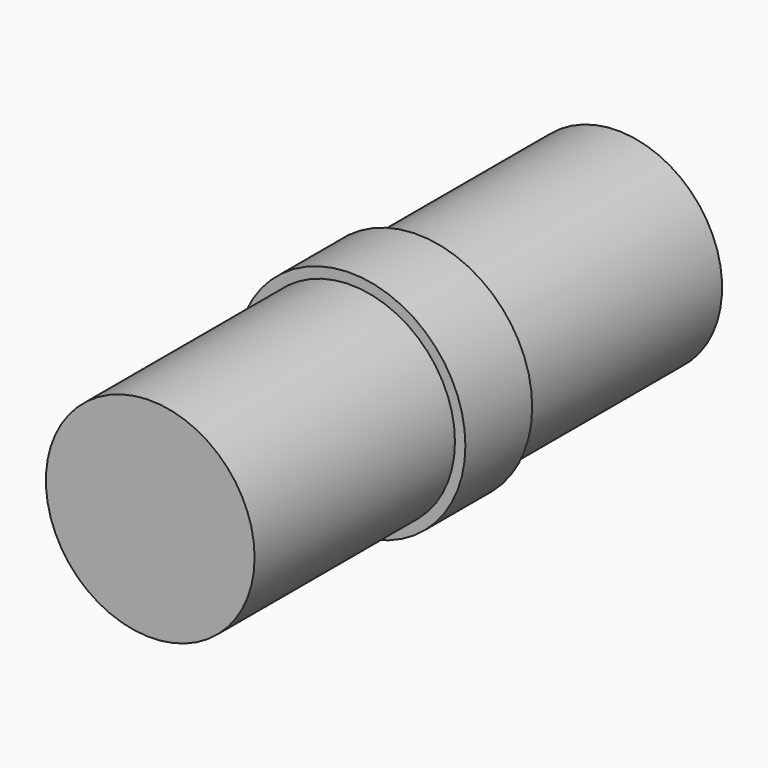
from build123d import *

# Parameters (mm, degrees)
F0_R     = 2.75
F1_DEPTH = 7
F2_R     = 2.75
F2_R_2   = 2.5
F3_DEPTH = 6
F4_R     = 2.75
F4_R_2   = 2.5
F5_DEPTH = 6


with BuildPart() as f1:
    # F0 (on Front) → F1 (new body, symmetric)
    with BuildSketch(Plane.XZ):
        Circle(F0_R)
    extrude(amount=F1_DEPTH, both=True)

    # F2 (on face) → F3 (cut)
    with BuildSketch(Plane.XZ.offset(7)):
        Circle(F2_R)
        Circle(F2_R_2, mode=Mode.SUBTRACT)
    extrude(amount=-F3_DEPTH, mode=Mode.SUBTRACT)

    # F4 (on face) → F5 (cut)
    with BuildSketch(Plane(origin=(0, 7, 0), x_dir=(-1, 0, 0), z_dir=(0, 1, 0))):
        Circle(F4_R)
        Circle(F4_R_2, mode=Mode.SUBTRACT)
    extrude(amount=-F5_DEPTH, mode=Mode.SUBTRACT)


solid = f1.part
